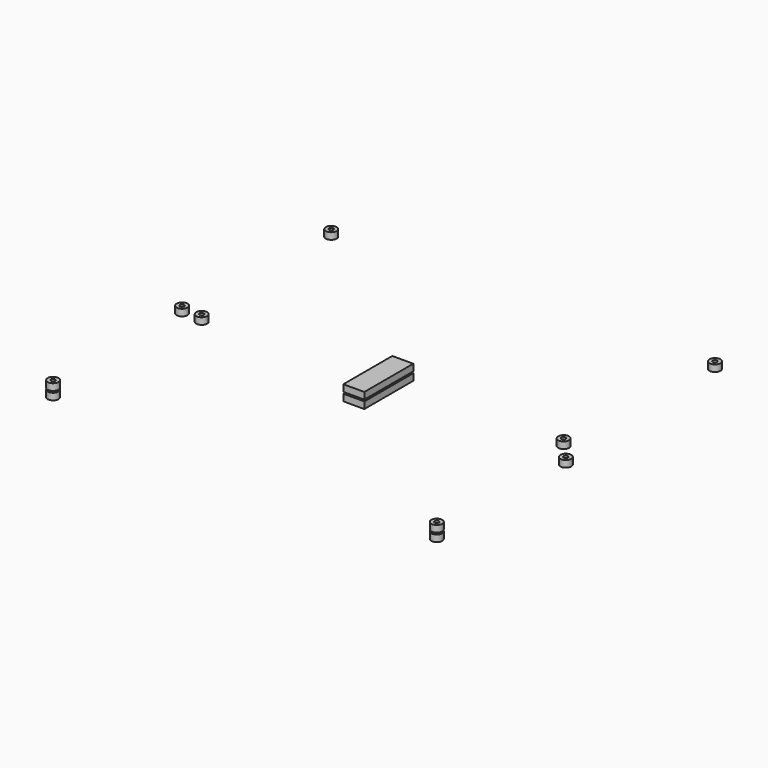
from build123d import *

# Parameters (mm, degrees)
F4_R     = 6.5
F4_R_2   = 2.55
F4_W     = 25
F4_H     = 73
F5_DEPTH = 8
F7_R     = 6.5
F7_R_2   = 2.55
F7_W     = 25
F7_H     = 73
F8_DEPTH = 8


with BuildPart() as f5:
    # F4 (on Top) → F5 (new body)
    with BuildSketch(Plane.XY):
        with Locations((-228.85, 215.85)):
            Circle(F4_R)
        with Locations((-228.85, 215.85)):
            Circle(F4_R_2, mode=Mode.SUBTRACT)
        with Locations((-228.85, -198.85)):
            Circle(F4_R)
        with Locations((-228.85, -198.85)):
            Circle(F4_R_2, mode=Mode.SUBTRACT)
        with Locations((228.85, -198.85)):
            Circle(F4_R)
        with Locations((228.85, -198.85)):
            Circle(F4_R_2, mode=Mode.SUBTRACT)
        Rectangle(F4_W, F4_H)
        with Locations((-215.85, 6.5)):
            Circle(F4_R)
        with Locations((-215.85, 6.5)):
            Circle(F4_R_2, mode=Mode.SUBTRACT)
        with Locations((228.85, -6.5)):
            Circle(F4_R)
        with Locations((228.85, -6.5)):
            Circle(F4_R_2, mode=Mode.SUBTRACT)
    extrude(amount=F5_DEPTH)


with BuildPart() as f8:
    # F7 (on offset) → F8 (new body)
    with BuildSketch(Plane.XY.offset(10)):
        with Locations((228.85, 215.85)):
            Circle(F7_R)
        with Locations((228.85, 215.85)):
            Circle(F7_R_2, mode=Mode.SUBTRACT)
        with Locations((-228.85, -198.85)):
            Circle(F7_R)
        with Locations((-228.85, -198.85)):
            Circle(F7_R_2, mode=Mode.SUBTRACT)
        with Locations((228.85, -198.85)):
            Circle(F7_R)
        with Locations((228.85, -198.85)):
            Circle(F7_R_2, mode=Mode.SUBTRACT)
        Rectangle(F7_W, F7_H)
        with Locations((-228.85, -6.5)):
            Circle(F7_R)
        with Locations((-228.85, -6.5)):
            Circle(F7_R_2, mode=Mode.SUBTRACT)
        with Locations((215.85, 6.5)):
            Circle(F7_R)
        with Locations((215.85, 6.5)):
            Circle(F7_R_2, mode=Mode.SUBTRACT)
    extrude(amount=F8_DEPTH)


solid = Compound([f5.part, f8.part])
